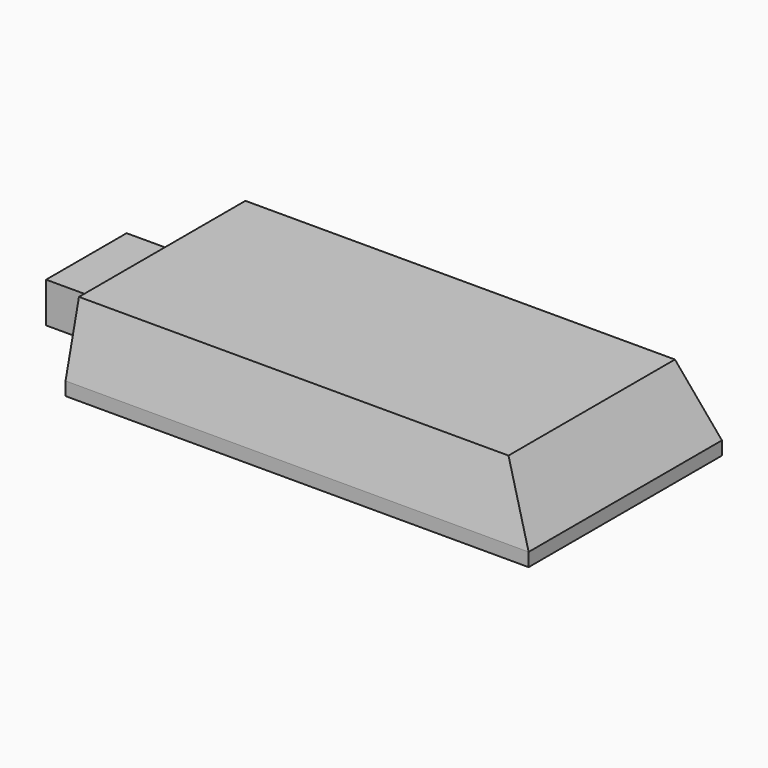
from build123d import *

# Parameters (mm, degrees)
F1_DEPTH = 6
F0_W     = 8.25
F0_H     = 7.5
F2_DEPTH = 1.5
F3_SIZE2 = 5
F3_SIZE  = 1.25
F4_SIZE2 = 2.5
F4_SIZE  = 5


with BuildPart() as f1:
    # F0 (on Top) → F1 (new body)
    with BuildSketch(Plane.XY):
        Polygon((17.25, 9), (-17.25, 9), (-17.25, 7), (-17.25, -0.5), (-17.25, -9), (17.25, -9), align=None)
    extrude(amount=F1_DEPTH)

    # F0 (on Top) → F2 (join, symmetric)
    with BuildSketch(Plane.XY):
        with Locations((-21.375, 3.25)):
            Rectangle(F0_W, F0_H)
    extrude(amount=F2_DEPTH, both=True)

    # F3
    f3_edges = [f1.edges().sort_by_distance(p)[0] for p in [
        (0, -9, 6),
        (0, 9, 6),
    ]]
    f3_side = f1.faces().sort_by_distance((0, 0, 6))[0]
    chamfer(f3_edges, length=F3_SIZE, length2=F3_SIZE2, reference=f3_side)

    # F4
    f4_edges = [f1.edges().sort_by_distance(p)[0] for p in [
        (17.25, 0, 6),
    ]]
    f4_side = f1.faces().sort_by_distance((17.25, 0, 2.9181))[0]
    chamfer(f4_edges, length=F4_SIZE, length2=F4_SIZE2, reference=f4_side)


solid = f1.part
